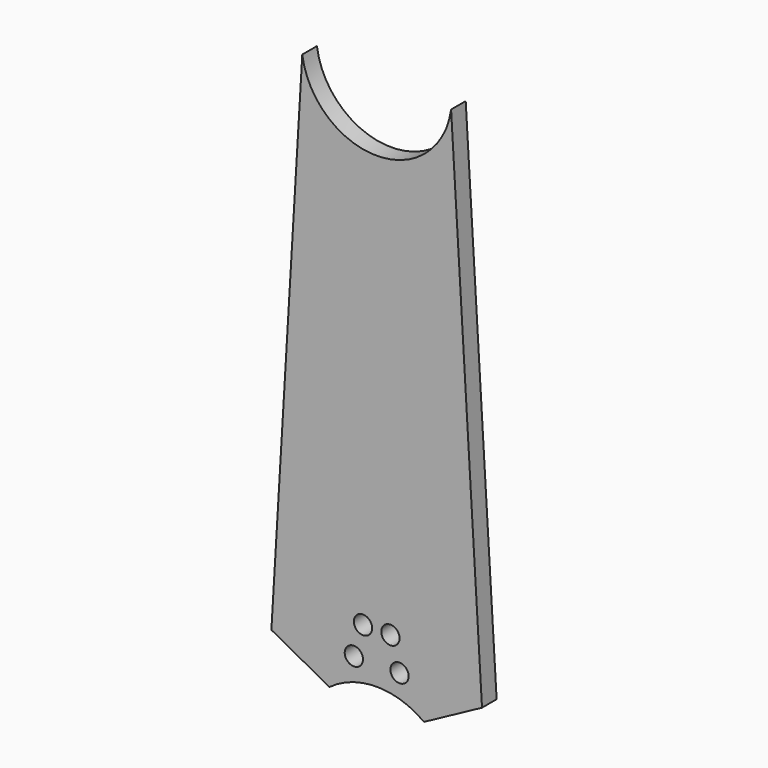
from build123d import *

# Parameters (mm, degrees)
SKETCH011_R  = 1.5
PAD004_DEPTH = 10
PAD002_DEPTH = 3


with BuildPart() as armmountcutout:
    # Sketch011 → Pad004 (new body, symmetric)
    with BuildSketch(Plane.XZ):
        with Locations((-2.25, 21.222956)):
            Circle(SKETCH011_R)
        with Locations((-3.75, 16.222956)):
            Circle(SKETCH011_R)
        with Locations((2.25, 21.222956)):
            Circle(SKETCH011_R)
        with Locations((3.75, 16.222956)):
            Circle(SKETCH011_R)
    extrude(amount=PAD004_DEPTH, both=True)


with BuildPart() as cut002:
    # Sketch009 → Pad002 (new body)
    with BuildSketch(Plane.XZ):
        with BuildLine():
            ThreePointArc((7.761952, 10.442802), (0, 13.011534), (-7.761952, 10.442802))
            Line((-17.297442, 15.597632), (-7.761952, 10.442802))
            Line((-12.220397, 100.442802), (-17.297442, 15.597632))
            ThreePointArc((-12.220397, 100.442802), (0, 89.783571), (12.220397, 100.442802))
            Line((17.297442, 15.597632), (12.220397, 100.442802))
            Line((7.761952, 10.442802), (17.297442, 15.597632))
        make_face()
    extrude(amount=-PAD002_DEPTH)

    # Cut002: cut ArmMountCutout
    add(armmountcutout.part, mode=Mode.SUBTRACT)


solid = cut002.part
